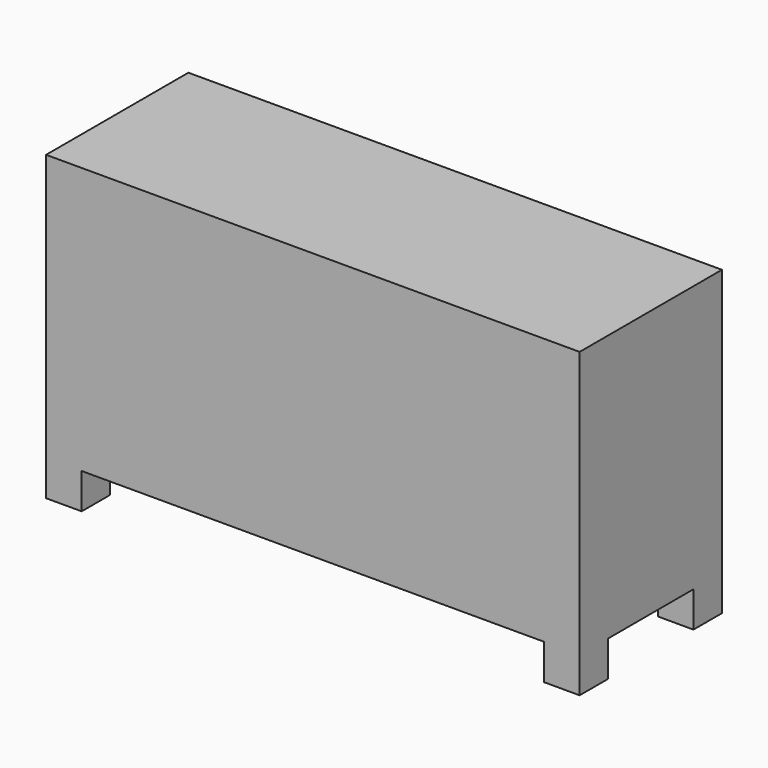
from build123d import *

# Parameters (mm, degrees)
F0_W     = 76.2
F0_H     = 38.1
F1_DEPTH = 25.4
F2_W     = 5.08
F2_H     = 5.08
F3_DEPTH = 5.08
F4_W     = 62.375739
F4_H     = 17.19705
F5_DEPTH = 25.4


with BuildPart() as f1:
    # F0 (on Front) → F1 (new body)
    with BuildSketch(Plane.XZ):
        with Locations((38.1, -19.05)):
            Rectangle(F0_W, F0_H)
    extrude(amount=F1_DEPTH)

    # F2 (on face) → F3 (join)
    with BuildSketch(Plane(origin=(0, 0, -38.1), x_dir=(1, 0, 0), z_dir=(0, 0, -1))):
        with Locations((2.54, 22.86)):
            Rectangle(F2_W, F2_H)
        with Locations((2.54, 2.54)):
            Rectangle(F2_W, F2_H)
        with Locations((73.66, 22.86)):
            Rectangle(F2_W, F2_H)
        with Locations((73.66, 2.54)):
            Rectangle(F2_W, F2_H)
    extrude(amount=F3_DEPTH)

    # F4 (on face) → F5 (cut)
    with BuildSketch(Plane(origin=(0, 0, -38.1), x_dir=(1, 0, 0), z_dir=(0, 0, -1))):
        with Locations((38.183279, 12.533443)):
            Rectangle(F4_W, F4_H)
    extrude(amount=-F5_DEPTH, mode=Mode.SUBTRACT)


solid = f1.part
